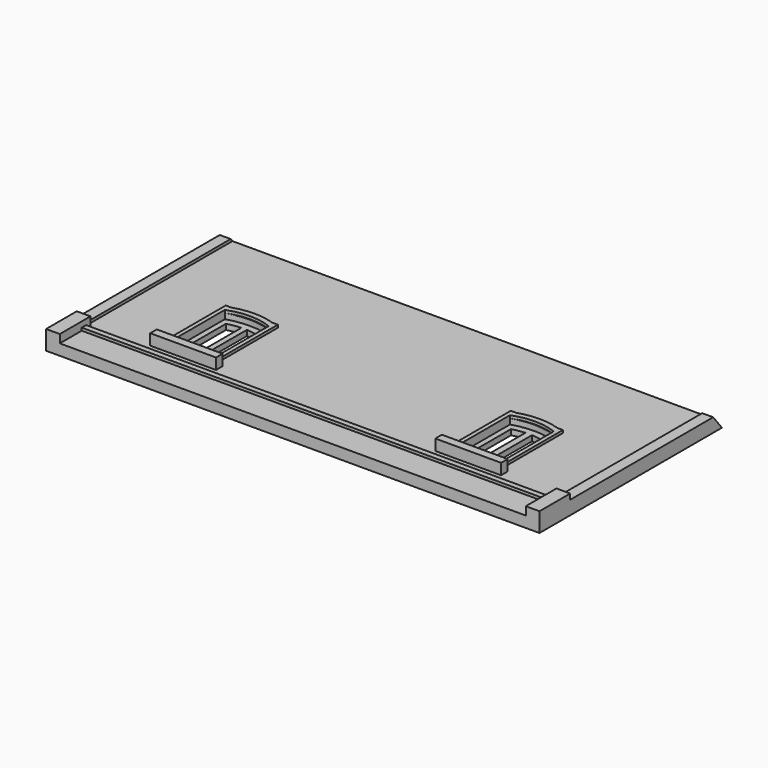
from build123d import *

# Parameters (mm, degrees)
SKETCH_W        = 90
SKETCH_H        = 44
PAD_DEPTH       = 2
POCKET_DEPTH    = 1
POCKET001_DEPTH = 5
SKETCH003_W     = 12
SKETCH003_H     = 1.5
PAD001_DEPTH    = 2
SKETCH004_W     = 2
SKETCH004_H     = 44
PAD002_DEPTH    = 2.5
SKETCH005_W     = 2.5
SKETCH005_H     = 7
PAD003_DEPTH    = 3.5
SKETCH006_W     = 85
SKETCH006_H     = 1
PAD004_DEPTH    = 0.5
PAD005_DEPTH    = 0.5
POCKET002_DEPTH = 90.001


with BuildPart() as part:
    # Sketch → Pad (new body)
    with BuildSketch(Plane.XY):
        Rectangle(SKETCH_W, SKETCH_H)
    extrude(amount=PAD_DEPTH)

    # Sketch001 → Pocket (cut)
    with BuildSketch(Plane.XY.offset(2)):
        with BuildLine():
            Line((-30, 0), (-30, -13))
            Line((-30, -13), (-22, -13))
            Line((-22, -13), (-22, 0))
            ThreePointArc((-22, 0), (-26, 0.630683), (-30, 0))
        make_face()
        with BuildLine():
            Line((22, 0), (22, -13))
            Line((22, -13), (30, -13))
            Line((30, -13), (30, 0))
            ThreePointArc((30, 0), (26, 0.630683), (22, 0))
        make_face()
    extrude(amount=-POCKET_DEPTH, mode=Mode.SUBTRACT)

    # Sketch002 → Pocket001 (cut)
    with BuildSketch(Plane.XY.offset(1)):
        with BuildLine():
            Line((-29, -1), (-29, -12))
            Line((-29, -12), (-26.5, -12))
            Line((-26.5, -0.594375), (-26.5, -12))
            ThreePointArc((-26.5, -0.594375), (-27.761713, -0.724996), (-29, -1))
        make_face()
        with BuildLine():
            Line((-23, -12.000917), (-23, -1.000917))
            ThreePointArc((-23, -1.000917), (-24.238285, -0.72589), (-25.5, -0.595257))
            Line((-25.5, -0.595257), (-25.5, -12.000917))
            Line((-25.5, -12.000917), (-23, -12.000917))
        make_face()
        with BuildLine():
            Line((23, -1.000917), (23, -12.000917))
            Line((25.318595, -12.000917), (23, -12.000917))
            Line((25.318595, -0.605014), (25.318595, -12.000917))
            ThreePointArc((25.318595, -0.605014), (24.148684, -0.740808), (23, -1.000917))
        make_face()
        with BuildLine():
            Line((29, -12), (29, -1))
            ThreePointArc((29, -1), (27.761713, -0.724996), (26.5, -0.594375))
            Line((26.5, -0.594375), (26.5, -12))
            Line((26.5, -12), (29, -12))
        make_face()
    extrude(amount=-POCKET001_DEPTH, mode=Mode.SUBTRACT)

    # Sketch003 → Pad001 (new body)
    with BuildSketch(Plane.XY.offset(2)):
        with Locations((-26, -13.75)):
            Rectangle(SKETCH003_W, SKETCH003_H)
        with Locations((26, -13.75)):
            Rectangle(SKETCH003_W, SKETCH003_H)
    extrude(amount=PAD001_DEPTH)

    # Sketch004 → Pad002 (new body)
    with BuildSketch(Plane(origin=(0, 0, 0), x_dir=(1, 0, 0), z_dir=(0, 0, -1))):
        with Locations((-44, 0)):
            Rectangle(SKETCH004_W, SKETCH004_H)
        with Locations((44, 0)):
            Rectangle(SKETCH004_W, SKETCH004_H)
    extrude(amount=-PAD002_DEPTH)

    # Sketch005 → Pad003 (new body)
    with BuildSketch(Plane(origin=(0, 0, 0), x_dir=(1, 0, 0), z_dir=(0, 0, -1))):
        with Locations((-43.75, 18.5)):
            Rectangle(SKETCH005_W, SKETCH005_H)
        with Locations((43.75, 18.5)):
            Rectangle(SKETCH005_W, SKETCH005_H)
    extrude(amount=-PAD003_DEPTH)

    # Sketch006 → Pad004 (new body)
    with BuildSketch(Plane.XY.offset(2)):
        with Locations((0, -16.5)):
            Rectangle(SKETCH006_W, SKETCH006_H)
    extrude(amount=PAD004_DEPTH)

    # Sketch007 → Pad005 (new body)
    with BuildSketch(Plane.XY.offset(2)):
        with BuildLine():
            Line((-30.75, -13), (-30.75, 1.152062))
            Line((-30.75, 1.152062), (-29.75, 1.152062))
            ThreePointArc((-22.25, 1.152062), (-26, 1.753049), (-29.75, 1.152062))
            Line((-22.25, 1.152062), (-21.25, 1.152062))
            Line((-21.25, 1.152062), (-21.25, -13))
            Line((-21.25, -13), (-22, -13))
            Line((-22, -13), (-22, 0))
            ThreePointArc((-22, 0), (-26, 0.753049), (-30, 0))
            Line((-30, -13), (-30, 0))
            Line((-30, -13), (-30.75, -13))
        make_face()
        with BuildLine():
            Line((21.25, 1.152062), (21.25, -13))
            Line((21.25, -13), (22, -13))
            Line((22, -13), (22, 0))
            ThreePointArc((30, 0), (26, 0.753049), (22, 0))
            Line((30, 0), (30, -13))
            Line((30, -13), (30.75, -13))
            Line((30.75, -13), (30.75, 1.152062))
            Line((30.75, 1.152062), (29.75, 1.152062))
            ThreePointArc((29.75, 1.152062), (26, 1.753049), (22.25, 1.152062))
            Line((21.25, 1.152062), (22.25, 1.152062))
        make_face()
    extrude(amount=PAD005_DEPTH)

    # Sketch008 → Pocket002 (cut, through all)
    with BuildSketch(Plane(origin=(-45, 0, 0), x_dir=(0, -1, 0), z_dir=(-1, 0, 0))):
        Polygon((-25.209874, 17.987658), (-5.209874, 17.987658), (-25.209874, -7.012342), align=None)
    extrude(amount=-POCKET002_DEPTH, mode=Mode.SUBTRACT)


solid = part.part
